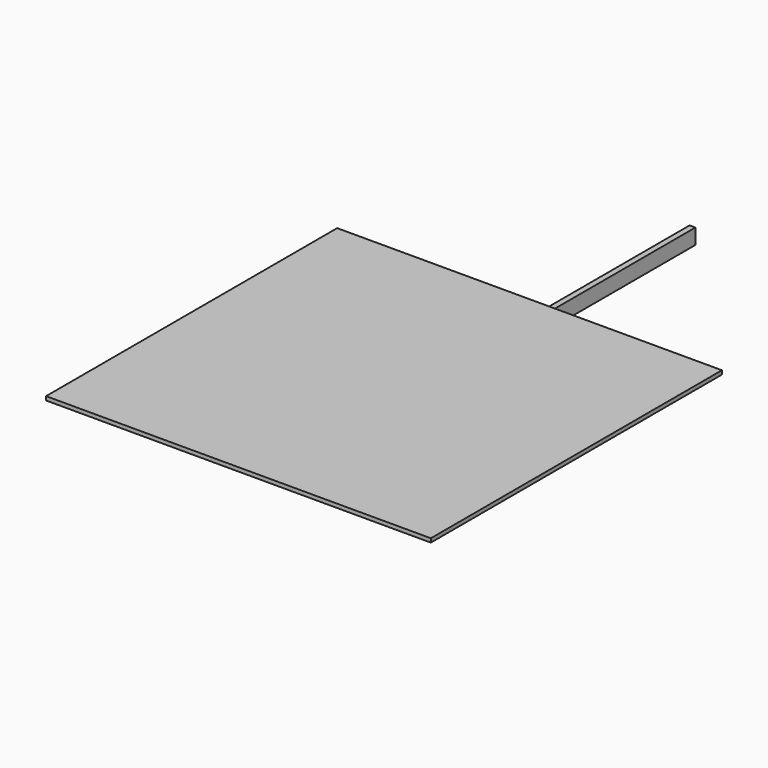
from build123d import *

# Parameters (mm, degrees)
F0_W     = 38.1
F0_H     = 2438.4
F1_DEPTH = 101.6
F2_W     = 508
F2_H     = 38.1
F3_DEPTH = 101.6
F4_W     = 2540
F4_H     = 2402.156334
F5_DEPTH = 25.4


with BuildPart() as f1:
    # F0 (on Top) → F1 (new body)
    with BuildSketch(Plane.XY):
        with Locations((52.599733, 1141.792141)):
            Rectangle(F0_W, F0_H)
    extrude(amount=-F1_DEPTH)


with BuildPart() as f3:
    # F2 (on Top) → F3 (new body)
    with BuildSketch(Plane.XY):
        with Locations((-624.988624, -59.68334)):
            Rectangle(F2_W, F2_H)
    extrude(amount=-F3_DEPTH)


with BuildPart() as f5:
    # F4 (on Top) → F5 (new body)
    with BuildSketch(Plane.XY):
        with Locations((-65.555312, -37.115365)):
            Rectangle(F4_W, F4_H)
    extrude(amount=F5_DEPTH)


solid = Compound([f1.part, f3.part, f5.part])
